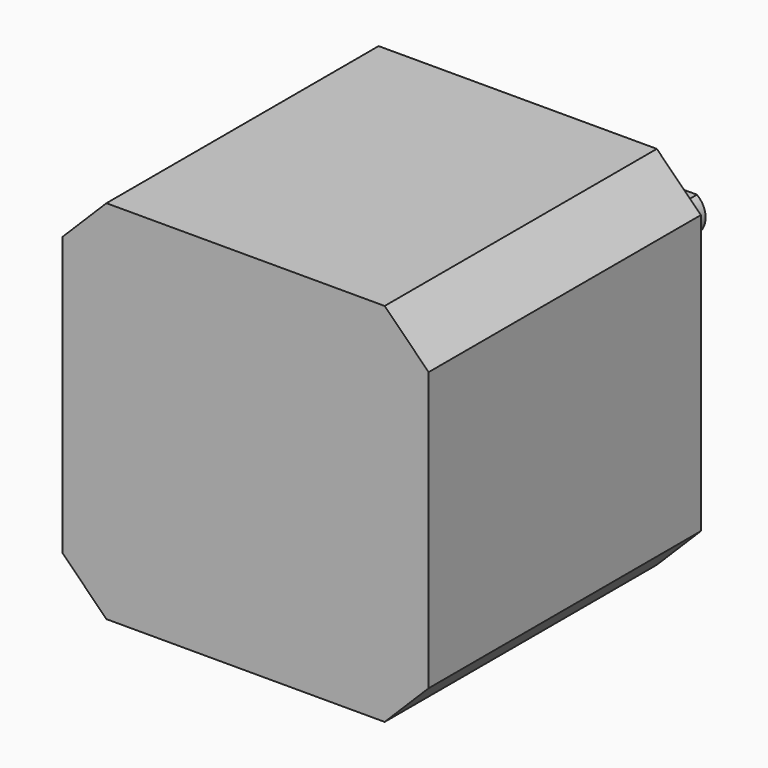
from build123d import *

# Parameters (mm, degrees)
F0_W     = 42.3
F0_H     = 42.3
F1_DEPTH = 39.3
F2_SIZE  = 5.08
F3_R     = 1.5
F4_DEPTH = 3
F5_R     = 11
F6_DEPTH = 2
F8_DEPTH = 22


with BuildPart() as f1:
    # F0 (on Front) → F1 (new body)
    with BuildSketch(Plane.XZ):
        Rectangle(F0_W, F0_H)
    extrude(amount=F1_DEPTH)

    # F2
    f2_edges = [f1.edges().sort_by_distance(p)[0] for p in [
        (-21.15, -19.65, 21.15),
        (21.15, -19.65, 21.15),
        (21.15, -19.65, -21.15),
        (-21.15, -19.65, -21.15),
    ]]
    chamfer(f2_edges, length=F2_SIZE)

    # F3 (on face) → F4 (cut)
    with BuildSketch(Plane(origin=(0, 0, 0), x_dir=(-1, 0, 0), z_dir=(0, 1, 0))):
        with Locations((-15.5, 15.5)):
            Circle(F3_R)
        with Locations((15.5, 15.5)):
            Circle(F3_R)
        with Locations((15.5, -15.5)):
            Circle(F3_R)
        with Locations((-15.5, -15.5)):
            Circle(F3_R)
    extrude(amount=-F4_DEPTH, mode=Mode.SUBTRACT)

    # F5 (on face) → F6 (join)
    with BuildSketch(Plane(origin=(0, 0, 0), x_dir=(-1, 0, 0), z_dir=(0, 1, 0))):
        Circle(F5_R)
    extrude(amount=F6_DEPTH)

    # F7 (on face) → F8 (join)
    with BuildSketch(Plane(origin=(0, 2, 0), x_dir=(-1, 0, 0), z_dir=(0, 1, 0))):
        with BuildLine():
            Line((1.5, 2), (-1.5, 2))
            ThreePointArc((-1.5, 2), (0, -2.5), (1.5, 2))
        make_face()
    extrude(amount=F8_DEPTH)


solid = f1.part
